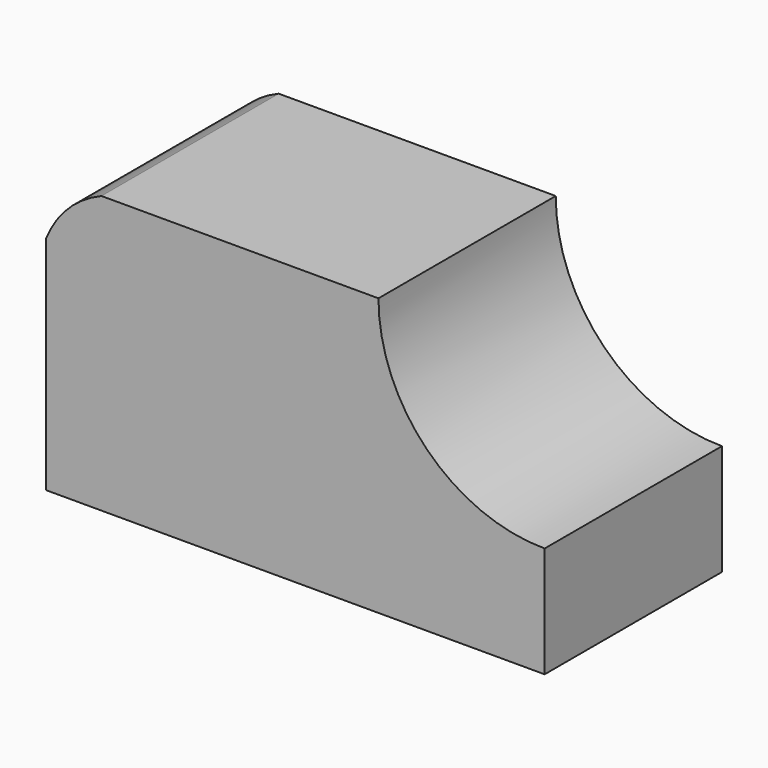
from build123d import *

# Parameters (mm, degrees)
F0_W     = 57.15
F0_H     = 31.75
F1_DEPTH = 25.4
F3_DEPTH = 25.4


with BuildPart() as f1:
    # F0 (on Front) → F1 (new body)
    with BuildSketch(Plane.XZ):
        with Locations((28.575, 15.875)):
            Rectangle(F0_W, F0_H)
    extrude(amount=F1_DEPTH)

    # F2 (on face) → F3 (cut)
    with BuildSketch(Plane.XZ.offset(25.4)):
        with BuildLine():
            Line((57.15, 31.75), (38.1, 31.75))
            ThreePointArc((38.1, 31.75), (43.6796158184, 18.2796158184), (57.15, 12.7))
            Line((57.15, 12.7), (57.15, 31.75))
        make_face()
        with BuildLine():
            ThreePointArc((0, 25.4), (2.5236444149, 29.2263555851), (6.35, 31.75))
            Line((6.35, 31.75), (0, 31.75))
            Line((0, 31.75), (0, 25.4))
        make_face()
    extrude(amount=-F3_DEPTH, mode=Mode.SUBTRACT)


solid = f1.part
